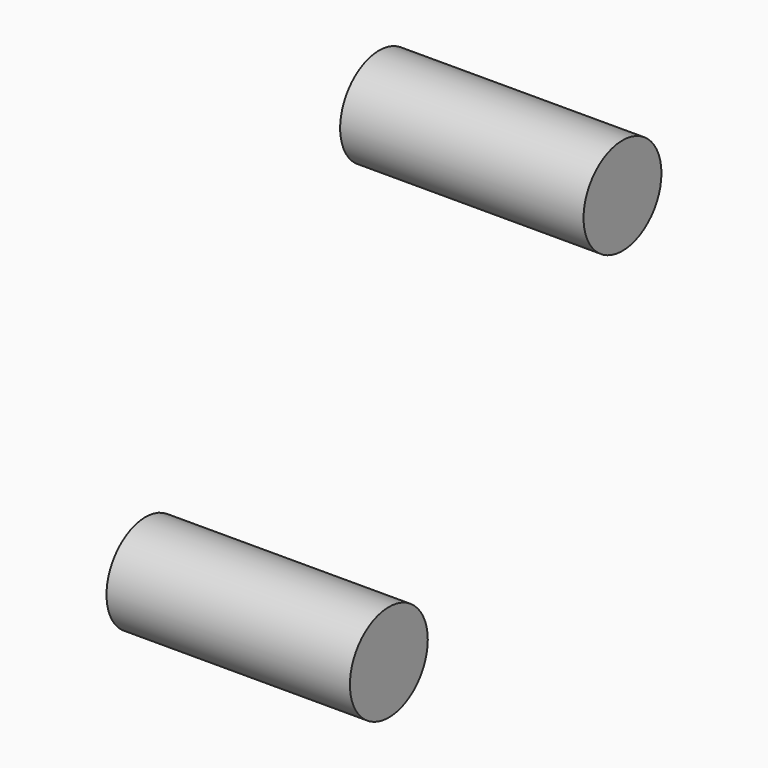
from build123d import *

# Parameters (mm, degrees)
CYLINDER008_R             = 2
CYLINDER008_DEPTH         = 10
CYLINDER007_R             = 2
CYLINDER007_DEPTH         = 10
FUSION001_PLACEMENT_ANGLE = 90


with BuildPart() as cilindre008:
    # Cylinder008 → Cylinder008 (new body)
    with BuildSketch(Plane(origin=(4, 20.01, 4), x_dir=(1, 0, 0), z_dir=(0, -1, 0))):
        Circle(CYLINDER008_R)
    extrude(amount=CYLINDER008_DEPTH)


with BuildPart() as fusion001:
    # Cylinder007 → Cylinder007 (new body)
    with BuildSketch(Plane(origin=(16, 20.01, 16), x_dir=(1, 0, 0), z_dir=(0, -1, 0))):
        Circle(CYLINDER007_R)
    extrude(amount=CYLINDER007_DEPTH)

    # Fusion001: union Cilindre008
    add(cilindre008.part)


with BuildPart() as fusion001_1:
    # Fusion001 placement: moved
    add(fusion001.part.moved(Location((20, 0, 0))).rotate(Axis((20, 0, 0), (0, 0, 1)), FUSION001_PLACEMENT_ANGLE))


solid = fusion001_1.part
